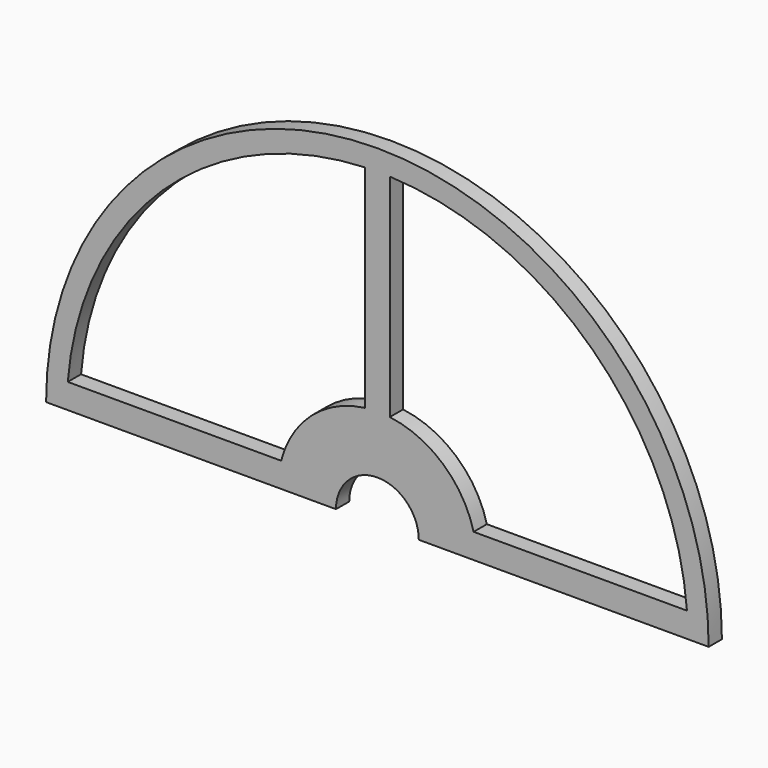
from build123d import *

# Parameters (mm, degrees)
F0_R     = 80
F0_R_2   = 10
F1_DEPTH = 4
F2_R     = 75
F2_R_2   = 24
F3_DEPTH = 25
F4_W     = 3
F4_H     = 45
F5_DEPTH = 4
F6_W     = 170.305036
F6_H     = 83.79095
F7_DEPTH = 25


with BuildPart() as f1:
    # F0 (on Front) → F1 (new body)
    with BuildSketch(Plane.XZ):
        Circle(F0_R)
        Circle(F0_R_2, mode=Mode.SUBTRACT)
    extrude(amount=F1_DEPTH)

    # F2 (on face) → F3 (cut)
    with BuildSketch(Plane.XZ.offset(4)):
        Circle(F2_R)
        Circle(F2_R_2, mode=Mode.SUBTRACT)
    extrude(amount=-F3_DEPTH, mode=Mode.SUBTRACT)

    # F4 (on Front) → F5 (join)
    with BuildSketch(Plane.XZ):
        Polygon((17.140831, 6), (17.140831, 0), (76.595739, 0), (77.140831, 0), (77.140831, 6), align=None)
        with Locations((1.5, -43.351822)):
            Rectangle(F4_W, F4_H)
        with Locations((-1.5, -43.351822)):
            Rectangle(F4_W, F4_H)
        Polygon((-76.336667, 0), (-17.078082, 0), (-17.078082, 6), (-77.078082, 6), (-77.078082, 0), align=None)
        Polygon((3, 76.524103), (-3, 76.524103), (-3, 16.524103), (0, 16.524103), (3, 16.524103), align=None)
    extrude(amount=F5_DEPTH)

    # F6 (on Front) → F7 (cut)
    with BuildSketch(Plane.XZ):
        with Locations((2.269793, -41.895475)):
            Rectangle(F6_W, F6_H)
    extrude(amount=F7_DEPTH, mode=Mode.SUBTRACT)


solid = f1.part
